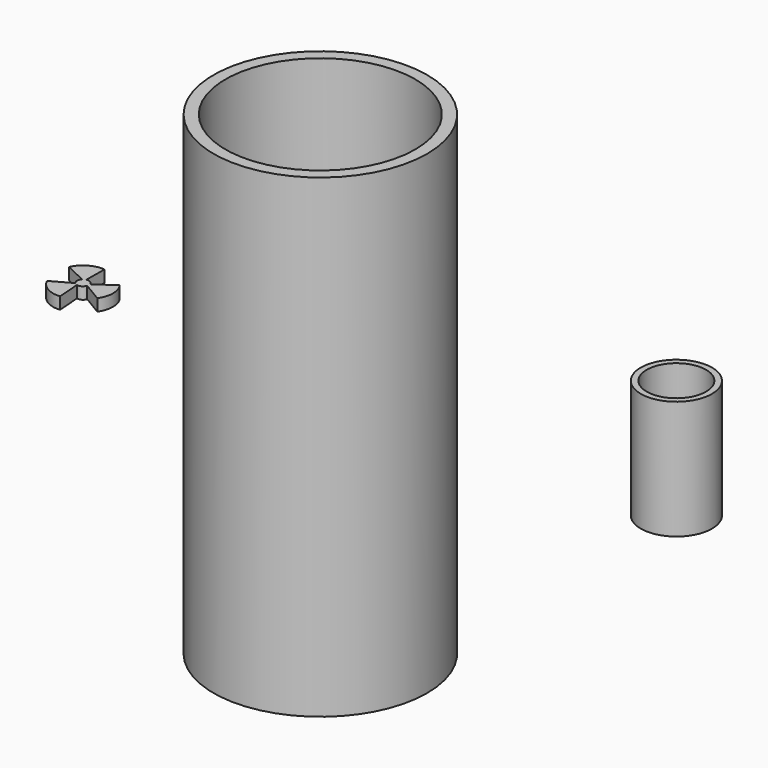
from build123d import *

# Parameters (mm, degrees)
F0_R      = 22.86
F1_DEPTH  = 50.8
F2_T      = -2.54
F3_R      = 2.54
F4_DEPTH  = 22.94505
F5_R      = 7.62
F6_DEPTH  = 25.4
F7_R      = 6.35
F8_DEPTH  = 25.4
F9_R      = 1.27
F10_DEPTH = 2.54
F12_DEPTH = 2.54
F13_COUNT = 3
F13_ANGLE = 240


with BuildPart() as f1:
    # F0 (on Top) → F1 (new body, symmetric)
    with BuildSketch(Plane.XY):
        Circle(F0_R)
    extrude(amount=F1_DEPTH, both=True)

    # F2
    f2_openings = [f1.faces().sort_by_distance(p)[0] for p in [
        (0, 0, 50.8),
    ]]
    offset(amount=F2_T, openings=f2_openings)

    # F3 (on Front) → F4 (cut)
    with BuildSketch(Plane.XZ):
        with Locations((0, -35.56)):
            Circle(F3_R)
    extrude(amount=-F4_DEPTH, mode=Mode.SUBTRACT)


with BuildPart() as f6:
    # F5 (on Top) → F6 (new body)
    with BuildSketch(Plane.XY):
        with Locations((76.2, 0)):
            Circle(F5_R)
    extrude(amount=F6_DEPTH)

    # F7 (on face) → F8 (cut)
    with BuildSketch(Plane(origin=(0, 0, 0), x_dir=(1, 0, 0), z_dir=(0, 0, -1))):
        with Locations((76.2, 0)):
            Circle(F7_R)
    extrude(amount=-F8_DEPTH, mode=Mode.SUBTRACT)


with BuildPart() as f10:
    # F9 (on Top) → F10 (new body)
    with BuildSketch(Plane.XY):
        with Locations((-50.8, 0)):
            Circle(F9_R)
    extrude(amount=F10_DEPTH)

    # F11 (on Top) → F12 (join)
    with BuildSketch(Plane.XY):
        with BuildLine():
            ThreePointArc((-49.5766793402, 0.3411547498), (-49.5417239496, 0.1721667245), (-49.53, 0))
            ThreePointArc((-49.53, 0), (-49.5446148316, -0.1921147546), (-49.588122959, -0.3798078954))
            Line((-49.588122959, -0.3798078954), (-45.4602462803, -2.8423268697))
            ThreePointArc((-45.4602462803, -2.8423268697), (-44.4995774109, 0.1592836459), (-45.4602462803, 3.1608941616))
            Line((-45.4602462803, 3.1608941616), (-49.5766793402, 0.3411547498))
        make_face()
    extrude(amount=F12_DEPTH)

    # F13: F10 ×3 about axis
    f13_axis = Axis((-50.8, 0, 0), (0, 0, -1))


with BuildPart() as f10_1:
    add(f10.part)
    for i in range(1, F13_COUNT):
        add(f10.part.rotate(f13_axis, i * F13_ANGLE / (F13_COUNT - 1)))


solid = Compound([f1.part, f6.part, f10_1.part])
